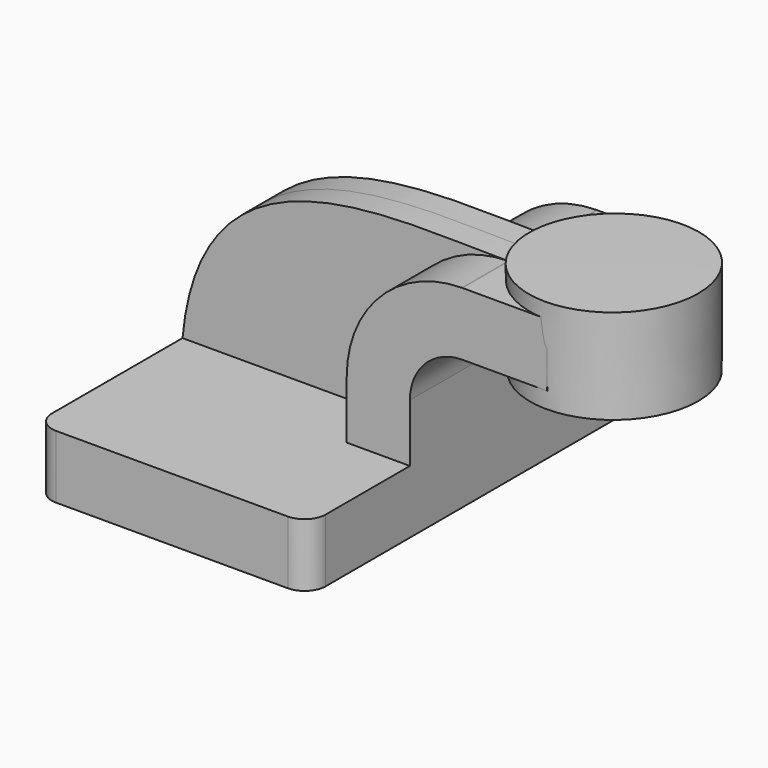
from build123d import *

# Parameters (mm, degrees)
F1_DEPTH = 63.5
F2_DEPTH = 25.4
F3_DEPTH = 7.9375
F5_R     = 6.35


with BuildPart() as f1:
    # F0 (on Front) → F1 (new body, symmetric)
    with BuildSketch(Plane.XZ):
        Polygon((41.275, -9.525), (41.275, 9.525), (22.225, 9.525), (-41.275, 9.525), (-41.275, -9.525), align=None)
    extrude(amount=F1_DEPTH, both=True)

    # F0 (on Front) → F2 (join, symmetric)
    with BuildSketch(Plane.XZ):
        with BuildLine():
            Line((22.225, 9.525), (41.275, 9.525))
            Line((41.275, 9.525), (41.275, 27.0002))
            ThreePointArc((41.275, 27.0002), (45.9246798487, 38.2255201513), (57.15, 42.8752))
            Line((57.15, 42.8752), (57.15, 61.9252))
            add(Edge.make_bspline(
                [(56.9266506974, 61.9244858207), (57.001194094, 61.9246904131), (57.0756440835, 61.9249282445), (57.15, 61.9252)],
                knots=[111.2718154364, 111.2718154364, 111.2718154364, 111.2718154364, 111.5045361635, 111.5045361635, 111.5045361635, 111.5045361635], degree=3))
            ThreePointArc((56.9266506974, 61.9244858207), (32.3754556107, 51.6168117754), (22.225, 27.0002))
            Line((22.225, 27.0002), (22.225, 9.525))
        make_face()
        Polygon((57.15, 61.9252), (57.15, 42.8752), (82.639603816, 42.8752), (82.4913637761, 61.9252), align=None)
    extrude(amount=F2_DEPTH, both=True)

    # F0 (on Front) → F3 (join, symmetric)
    with BuildSketch(Plane.XZ):
        with BuildLine():
            Line((-41.275, 9.525), (22.225, 9.525))
            Line((22.225, 9.525), (22.225, 27.0002))
            ThreePointArc((22.225, 27.0002), (32.3754556107, 51.6168117754), (56.9266506974, 61.9244858207))
            add(Edge.make_bspline(
                [(-41.275, 9.525), (-35.7109377895, 69.3276862996), (21.2848788051, 61.8266631405), (56.9266506974, 61.9244858207)],
                knots=[0, 0, 0, 0, 111.2718154364, 111.2718154364, 111.2718154364, 111.2718154364], degree=3))
        make_face()
    extrude(amount=F3_DEPTH, both=True)

    # F0 (on Front) → F4 (revolve)
    with BuildSketch(Plane.XZ):
        Polygon((82.4913637761, 61.9252), (82.639603816, 42.8752), (82.6767626526, 38.1), (107.95, 38.1), (107.95, 66.675), (82.4544025928, 66.675), align=None)
    revolve(axis=Axis((82.5655826227, 0, 52.3875), (0.0077813938, 0, -0.9999697245)))

    # F5
    f5_edges = [f1.edges().sort_by_distance(p)[0] for p in [
        (41.275, -63.5, 0),
        (-41.275, -63.5, 0),
        (41.275, 63.5, 0),
        (-41.275, 63.5, 0),
    ]]
    fillet(f5_edges, radius=F5_R)


solid = f1.part
